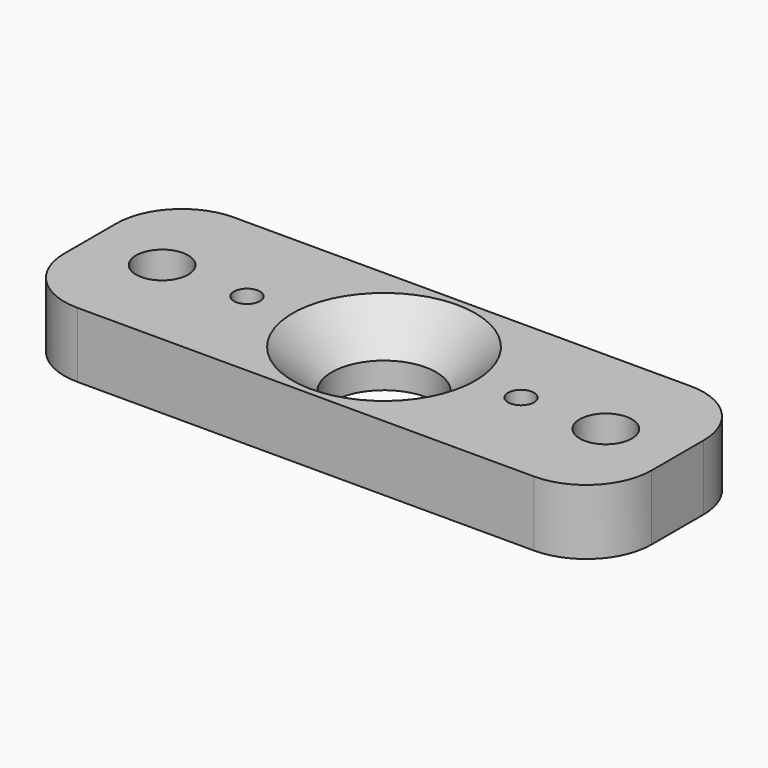
from build123d import *

# Parameters (mm, degrees)
F0_R     = 2
F0_R_2   = 1
F0_R_3   = 4
F1_DEPTH = 5
F2_SIZE  = 3


with BuildPart() as f1:
    # F0 (on Top) → F1 (new body)
    with BuildSketch(Plane.XY):
        with BuildLine():
            Line((40, 0), (5, 0))
            ThreePointArc((5, 0), (1.464466, -1.464466), (0, -5))
            Line((0, -5), (0, -10))
            ThreePointArc((0, -10), (1.464466, -13.535534), (5, -15))
            Line((5, -15), (40, -15))
            ThreePointArc((40, -15), (43.535534, -13.535534), (45, -10))
            Line((45, -10), (45, -5))
            ThreePointArc((45, -5), (43.535534, -1.464466), (40, 0))
        make_face()
        with Locations((5.5, -7.5)):
            Circle(F0_R, mode=Mode.SUBTRACT)
        with Locations((12, -7.5)):
            Circle(F0_R_2, mode=Mode.SUBTRACT)
        with Locations((22.5, -7.5)):
            Circle(F0_R_3, mode=Mode.SUBTRACT)
        with Locations((33, -7.5)):
            Circle(F0_R_2, mode=Mode.SUBTRACT)
        with Locations((39.5, -7.5)):
            Circle(F0_R, mode=Mode.SUBTRACT)
    extrude(amount=F1_DEPTH)

    # F2
    f2_edges = [f1.edges().sort_by_distance(p)[0] for p in [
        (18.5, -7.5, 5),
    ]]
    chamfer(f2_edges, length=F2_SIZE)


solid = f1.part
